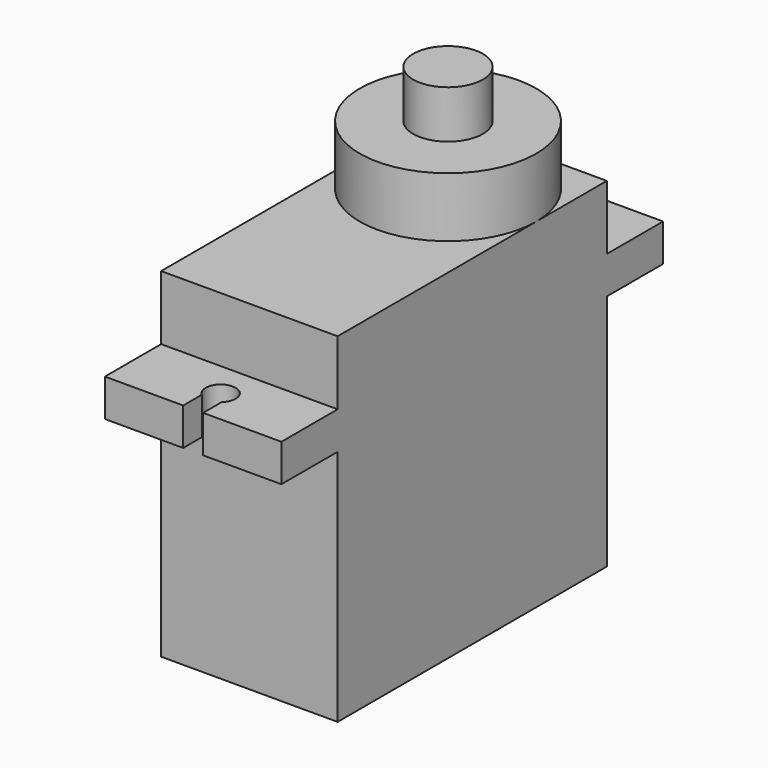
from build123d import *

# Parameters (mm, degrees)
F0_W      = 11.8
F0_H      = 22.5
F1_DEPTH  = 15.9
F2_W      = 11.8
F2_H      = 31.9
F3_DEPTH  = 2.5
F5_DEPTH  = 2.5
F6_DEPTH  = 22.7
F8_DEPTH  = 4
F9_R      = 2.33
F10_DEPTH = 3.2


with BuildPart() as f1:
    # F0 (on Top) → F1 (new body)
    with BuildSketch(Plane.XY):
        Rectangle(F0_W, F0_H)
    extrude(amount=F1_DEPTH)

    # F2 (on face) → F3 (join)
    with BuildSketch(Plane.XY.offset(15.9)):
        Rectangle(F2_W, F2_H)
    extrude(amount=F3_DEPTH)

    # F4 (on face) → F5 (cut)
    with BuildSketch(Plane.XY.offset(18.4)):
        with BuildLine():
            ThreePointArc((-0.665, 14.3968433571), (-0.4092676386, 12.7375856205), (1, 13.65))
            ThreePointArc((1, 13.65), (0.9124143795, 14.0592676386), (0.665, 14.3968433571))
            Line((0.665, 14.3968433571), (0.665, 13.65))
            Line((0.665, 13.65), (-0.665, 13.65))
            Line((-0.665, 13.65), (-0.665, 14.3968433571))
        make_face()
        with BuildLine():
            Line((0.665, 13.65), (0.665, 14.3968433571))
            ThreePointArc((0.665, 14.3968433571), (0, 14.65), (-0.665, 14.3968433571))
            Line((-0.665, 14.3968433571), (-0.665, 13.65))
            Line((-0.665, 13.65), (0.665, 13.65))
        make_face()
        with BuildLine():
            ThreePointArc((-0.665, 14.3968433571), (0, 14.65), (0.665, 14.3968433571))
            Line((0.665, 14.3968433571), (0.665, 15.95))
            Line((0.665, 15.95), (-0.665, 15.95))
            Line((-0.665, 15.95), (-0.665, 14.3968433571))
        make_face()
        with BuildLine():
            ThreePointArc((0.665, -14.3968433571), (0.9124143795, -14.0592676386), (1, -13.65))
            ThreePointArc((1, -13.65), (-0.4092676386, -12.7375856205), (-0.665, -14.3968433571))
            Line((-0.665, -14.3968433571), (-0.665, -13.65))
            Line((-0.665, -13.65), (0.665, -13.65))
            Line((0.665, -13.65), (0.665, -14.3968433571))
        make_face()
        with BuildLine():
            Line((-0.665, -13.65), (-0.665, -14.3968433571))
            ThreePointArc((-0.665, -14.3968433571), (0, -14.65), (0.665, -14.3968433571))
            Line((0.665, -14.3968433571), (0.665, -13.65))
            Line((0.665, -13.65), (-0.665, -13.65))
        make_face()
        with BuildLine():
            ThreePointArc((0.665, -14.3968433571), (0, -14.65), (-0.665, -14.3968433571))
            Line((-0.665, -14.3968433571), (-0.665, -15.95))
            Line((-0.665, -15.95), (0.665, -15.95))
            Line((0.665, -15.95), (0.665, -14.3968433571))
        make_face()
    extrude(amount=-F5_DEPTH, mode=Mode.SUBTRACT)

    # F0 (on Top) → F6 (join)
    with BuildSketch(Plane.XY):
        Rectangle(F0_W, F0_H)
    extrude(amount=F6_DEPTH)

    # F7 (on face) → F8 (join)
    with BuildSketch(Plane.XY.offset(22.7)):
        with BuildLine():
            ThreePointArc((-5.9, 5.35), (0, -0.55), (5.9, 5.35))
            ThreePointArc((5.9, 5.35), (4.171930009, 9.521930009), (0, 11.25))
            ThreePointArc((0, 11.25), (-4.171930009, 9.521930009), (-5.9, 5.35))
        make_face()
    extrude(amount=F8_DEPTH)

    # F9 (on face) → F10 (join)
    with BuildSketch(Plane.XY.offset(26.7)):
        with Locations((0, 5.35)):
            Circle(F9_R)
    extrude(amount=F10_DEPTH)


solid = f1.part
